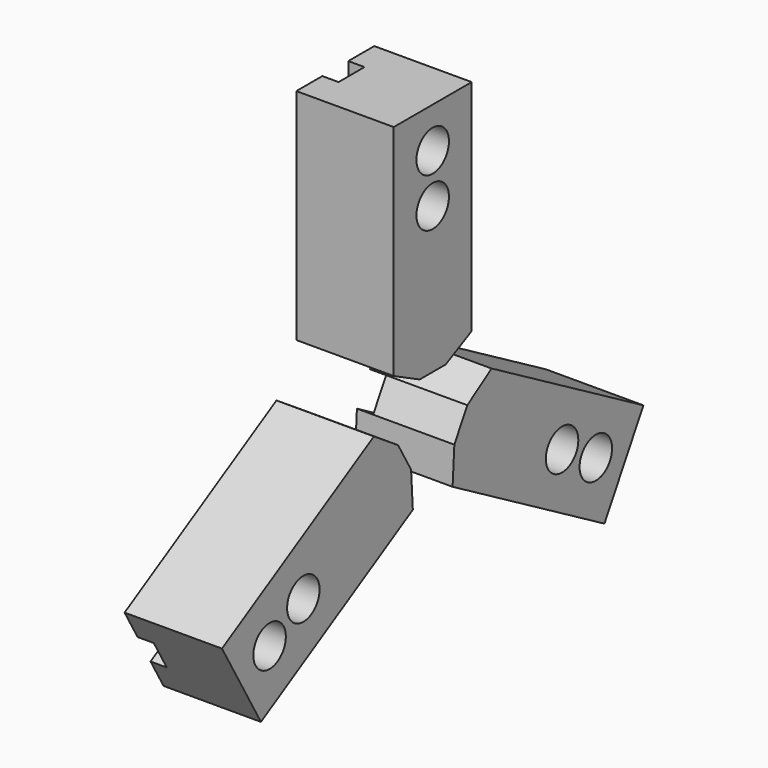
from build123d import *

# Parameters (mm, degrees)
F1_DEPTH = 60
F2_R     = 8
F3_DEPTH = 60
F2_R_2   = 12.5
F4_DEPTH = 40
F6_DEPTH = 145
F8_COUNT = 3


with BuildPart() as f1:
    # F0 (on Right) → F1 (new body)
    with BuildSketch(Plane.YZ):
        Polygon((-10, 25), (0, 25), (10, 25), (30, 35), (30, 170), (0, 170), (-30, 170), (-30, 35), align=None)
    extrude(amount=F1_DEPTH)

    # F2 (on face) → F3 (cut, through all)
    with BuildSketch(Plane.YZ.offset(60)):
        with Locations((0, 145)):
            Circle(F2_R)
        with Locations((0, 115)):
            Circle(F2_R)
    extrude(amount=-F3_DEPTH, mode=Mode.SUBTRACT)

    # F2 (on face) → F4 (cut)
    with BuildSketch(Plane.YZ.offset(60)):
        with Locations((0, 145)):
            Circle(F2_R_2)
        with Locations((0, 145)):
            Circle(F2_R, mode=Mode.SUBTRACT)
        with Locations((0, 115)):
            Circle(F2_R_2)
        with Locations((0, 115)):
            Circle(F2_R, mode=Mode.SUBTRACT)
    extrude(amount=-F4_DEPTH, mode=Mode.SUBTRACT)

    # F5 (on face) → F6 (cut, through all)
    with BuildSketch(Plane.XY.offset(170)):
        Polygon((0, 10), (0, 0), (0, -10), (10, -10), (10, 0), (10, 10), align=None)
    extrude(amount=-F6_DEPTH, mode=Mode.SUBTRACT)


with BuildPart() as f8_1:
    # F8: instance of F1
    add(f1.part.rotate(Axis((36.991023, 0, 0), (1, 0, 0)), 1 * 360 / F8_COUNT))


with BuildPart() as f8_2:
    # F8: instance of F1
    add(f1.part.rotate(Axis((36.991023, 0, 0), (1, 0, 0)), 2 * 360 / F8_COUNT))


with BuildPart() as f1_1:
    # F9: moved
    add(f1.part.moved(Location((3, 0, 0))))


with BuildPart() as f8_1_1:
    # F9: moved
    add(f8_1.part.moved(Location((3, 0, 0))))


with BuildPart() as f8_2_1:
    # F9: moved
    add(f8_2.part.moved(Location((3, 0, 0))))


solid = Compound([f1_1.part, f8_1_1.part, f8_2_1.part])
